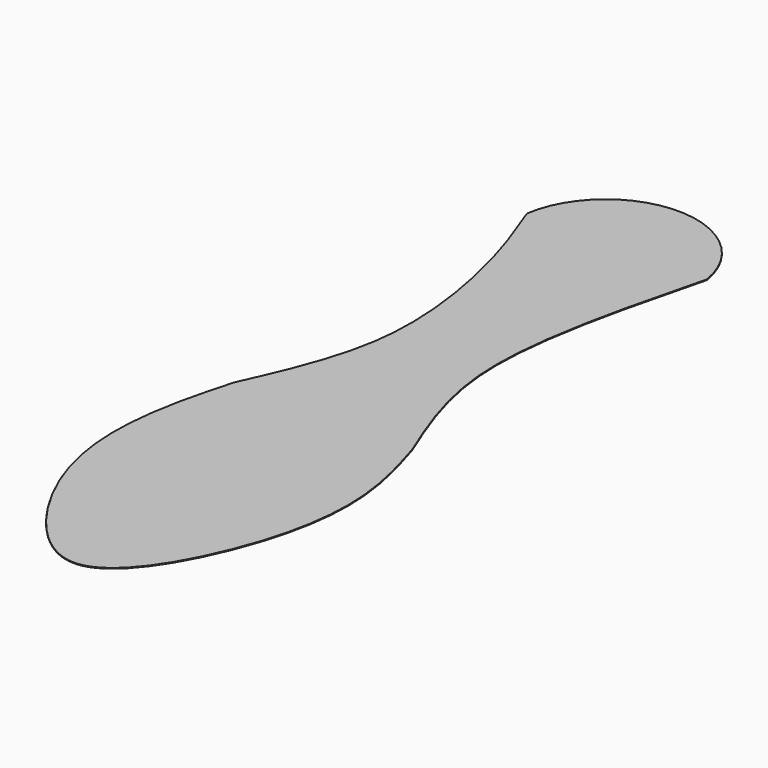
from build123d import *

# Parameters (mm, degrees)
F1_DEPTH = 0.254


with BuildPart() as f1:
    # F0 (on Top) → F1 (new body)
    with BuildSketch(Plane.XY):
        with BuildLine():
            add(Edge.make_bspline(
                [(30.1279146224, 54.401587695), (22.8116225694, 25.6240228228), (9.7372050822, -25.8022863894), (23.8933735031, -60.5265674785), (30.1279146224, -75.8195444942)],
                knots=[0, 0, 0, 0, 0.5595883763, 1, 1, 1, 1], degree=3))
            ThreePointArc((30.1279146224, 54.401587695), (-1.6925407877, 81.3183540753), (-33.2692191005, 54.1160181165))
            add(Edge.make_bspline(
                [(-33.2692191005, 54.1160181165), (-29.8087479275, 45.1048768039), (-21.8674387935, 24.4255371312), (-12.7146207417, -29.3772670797), (-26.4779723942, -60.0925647236), (-33.2692191005, -75.2484053373)],
                knots=[0, 0, 0, 0, 0.2812039366, 0.6453246621, 1, 1, 1, 1], degree=3))
            add(Edge.make_bspline(
                [(30.1279146224, -75.8195444942), (32.9830606237, -85.2761004768), (39.3029661035, -106.2083189859), (34.4485721566, -147.7186561859), (1.2573975442, -206.8699875185), (-42.1042223657, -148.4763036143), (-41.3413989265, -104.3910474609), (-35.7472123097, -84.1945971761), (-33.2692191005, -75.2484053373)],
                knots=[0, 0, 0, 0, 0.142976175, 0.3164797567, 0.4970056306, 0.6836668551, 0.8598775052, 1, 1, 1, 1], degree=3))
        make_face()
    extrude(amount=F1_DEPTH)


solid = f1.part
